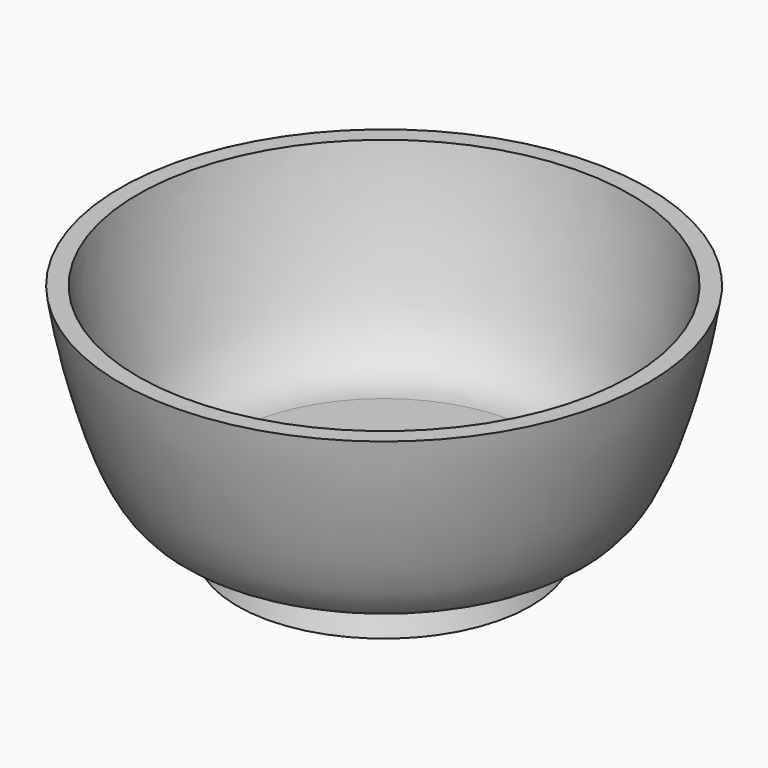
from build123d import *


with BuildPart() as f1:
    # F0 (on Front) → F1 (revolve)
    with BuildSketch(Plane.XZ):
        with BuildLine():
            Line((0, 9.4035807997), (0, 0))
            Line((0, 0), (25, 0))
            Line((25, 0), (22.9862048363, 6))
            add(Edge.make_bspline(
                [(22.9862048363, 6), (26.0467404955, 6.1384126679), (30.7134488631, 6.2216484476), (35.6926938084, 9.6868127761), (40.5140835832, 19.4564865132), (44.1427465173, 33.8779676218), (45, 40)],
                knots=[0, 0, 0, 0, 0.2146613002, 0.391031535, 0.6439946325, 1, 1, 1, 1], degree=3))
            Line((45, 40), (42, 40))
            add(Edge.make_bspline(
                [(26.1758081615, 9.4035807997), (28.8919549881, 9.4405767751), (34.1801118313, 12.0202456706), (39.1339583106, 25.8822108575), (41.3609894204, 35.7213179844), (42, 40)],
                knots=[0, 0, 0, 0, 0.2654665152, 0.6303758162, 1, 1, 1, 1], degree=3))
            Line((26.1758081615, 9.4035807997), (0, 9.4035807997))
        make_face()
    revolve(axis=Axis((0, 0, 4.7017903998), (0, 0, -1)))


solid = f1.part
